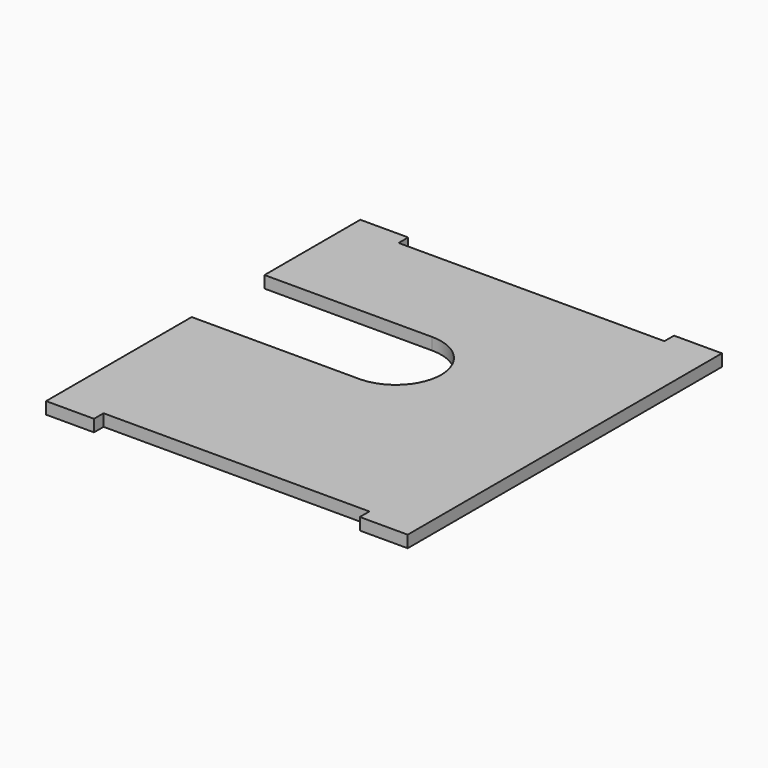
from build123d import *

# Parameters (mm, degrees)
PAD_DEPTH = 2.5


with BuildPart() as part:
    # Sketch → Pad (new body, symmetric)
    with BuildSketch(Plane.XY):
        with BuildLine():
            Line((75.5, 82), (75.5, -82))
            Line((75.5, -82), (55.5, -82))
            Line((55.5, -82), (55.5, -77))
            Line((55.5, -77), (-55.5, -77))
            Line((-55.5, -77), (-55.5, -82))
            Line((-55.5, -82), (-75.5, -82))
            Line((-75.5, -82), (-75.5, -6))
            Line((-5.5, -6), (-75.5, -6))
            ThreePointArc((-5.5, -6), (13.5, 13), (-5.5, 32))
            Line((-75.5, 32), (-5.5, 32))
            Line((-75.5, 32), (-75.5, 82))
            Line((-75.5, 82), (-55.5, 82))
            Line((-55.5, 82), (-55.5, 77))
            Line((-55.5, 77), (55.5, 77))
            Line((55.5, 77), (55.5, 82))
            Line((55.5, 82), (75.5, 82))
        make_face()
    extrude(amount=PAD_DEPTH, both=True)


solid = part.part
